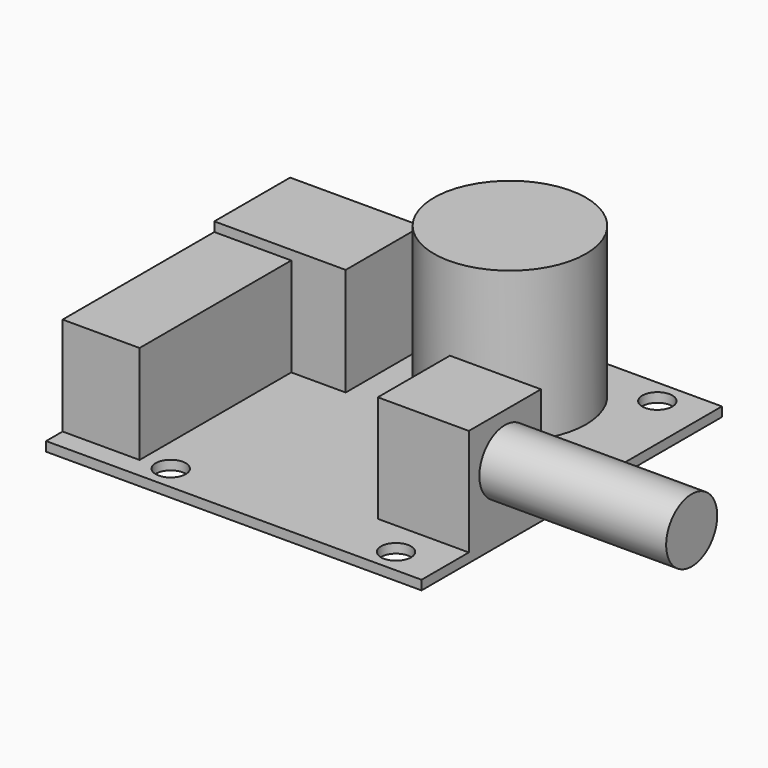
from build123d import *

# Parameters (mm, degrees)
F0_W      = 40
F0_H      = 40
F0_R      = 1.6
F1_DEPTH  = 1
F2_W      = 9.7
F2_H      = 9.6
F3_DEPTH  = 11.4
F4_R      = 3.4
F5_DEPTH  = 19.9
F6_R      = 8.1
F7_DEPTH  = 16
F8_W      = 14
F8_H      = 6
F9_DEPTH  = 5
F10_W     = 8.2
F10_H     = 20.2
F11_DEPTH = 10.5
F12_W     = 14
F12_H     = 10.1
F13_DEPTH = 11.5


with BuildPart() as f1:
    # F0 (on Top) → F1 (new body)
    with BuildSketch(Plane.XY):
        Rectangle(F0_W, F0_H)
        with Locations((-8.8, -17.4)):
            Circle(F0_R, mode=Mode.SUBTRACT)
        with Locations((15.2, -17.4)):
            Circle(F0_R, mode=Mode.SUBTRACT)
        with Locations((-6, 17.4)):
            Circle(F0_R, mode=Mode.SUBTRACT)
        with Locations((15.2, 17.4)):
            Circle(F0_R, mode=Mode.SUBTRACT)
    extrude(amount=F1_DEPTH)

    # F2 (on face) → F3 (join)
    with BuildSketch(Plane.XY.offset(1)):
        with Locations((15.15, -8.9)):
            Rectangle(F2_W, F2_H)
    extrude(amount=F3_DEPTH)

    # F4 (on face) → F5 (join)
    with BuildSketch(Plane.YZ.offset(20)):
        with Locations((-8.9, 7.6)):
            Circle(F4_R)
    extrude(amount=F5_DEPTH)

    # F6 (on face) → F7 (join)
    with BuildSketch(Plane.XY.offset(1)):
        with Locations((5.1, 10.4)):
            Circle(F6_R)
    extrude(amount=F7_DEPTH)

    # F8 (on face) → F9 (join)
    with BuildSketch(Plane.XY.offset(1)):
        with Locations((-15.6, 15.5)):
            Rectangle(F8_W, F8_H)
    extrude(amount=F9_DEPTH)

    # F10 (on face) → F11 (join)
    with BuildSketch(Plane.XY.offset(1)):
        with Locations((-15.9, -7.7)):
            Rectangle(F10_W, F10_H)
    extrude(amount=F11_DEPTH)

    # F12 (on face) → F13 (join)
    with BuildSketch(Plane.XY.offset(1)):
        with Locations((-13, 7.45)):
            Rectangle(F12_W, F12_H)
    extrude(amount=F13_DEPTH)


solid = f1.part
